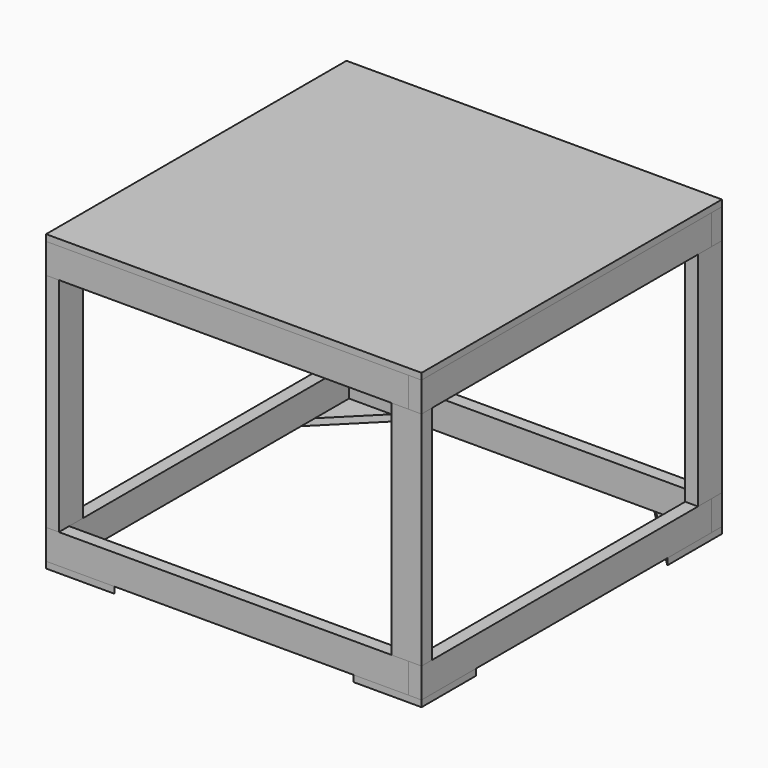
from build123d import *

# Parameters (mm, degrees)
F1_W      = 38.1
F1_H      = 1079.5
F2_DEPTH  = 88.9
F3_COUNT  = 4
F6_W      = 38.1
F6_H      = 88.9
F7_DEPTH  = 660.4
F8_COUNT  = 4
F10_DEPTH = 19.05
F11_COUNT = 4
F12_W     = 1117.6
F12_H     = 1117.6
F13_DEPTH = 19.05


with BuildPart() as f2:
    # F1 (on Top) → F2 (new body)
    with BuildSketch(Plane.XY):
        with Locations((19.05, 577.85)):
            Rectangle(F1_W, F1_H)
    extrude(amount=F2_DEPTH)


with BuildPart() as f3_1:
    # F3: instance of F2
    add(f2.part.rotate(Axis((558.8, 558.8, 0), (0, 0, 1)), 1 * 360 / F3_COUNT))


with BuildPart() as f3_2:
    # F3: instance of F2
    add(f2.part.rotate(Axis((558.8, 558.8, 0), (0, 0, 1)), 2 * 360 / F3_COUNT))


with BuildPart() as f3_3:
    # F3: instance of F2
    add(f2.part.rotate(Axis((558.8, 558.8, 0), (0, 0, 1)), 3 * 360 / F3_COUNT))


with BuildPart() as f5_1:
    # F5: instance of F2
    add(f2.part.mirror(Plane(origin=(539.75, 19.05, -330.2), x_dir=(1, 0, 0), z_dir=(0, 0, -1))))


with BuildPart() as f5_2:
    # F5: instance of F3_1
    add(f3_1.part.mirror(Plane(origin=(539.75, 19.05, -330.2), x_dir=(1, 0, 0), z_dir=(0, 0, -1))))


with BuildPart() as f5_3:
    # F5: instance of F3_2
    add(f3_2.part.mirror(Plane(origin=(539.75, 19.05, -330.2), x_dir=(1, 0, 0), z_dir=(0, 0, -1))))


with BuildPart() as f5_4:
    # F5: instance of F3_3
    add(f3_3.part.mirror(Plane(origin=(539.75, 19.05, -330.2), x_dir=(1, 0, 0), z_dir=(0, 0, -1))))


with BuildPart() as f7:
    # F6 (on face) → F7 (new body, through all)
    with BuildSketch(Plane(origin=(0, 0, 0), x_dir=(1, 0, 0), z_dir=(0, 0, -1))):
        with Locations((19.05, -44.45)):
            Rectangle(F6_W, F6_H)
    extrude(amount=F7_DEPTH)


with BuildPart() as f8_1:
    # F8: instance of F7
    add(f7.part.rotate(Axis((558.8, 558.8, 0), (0, 0, 1)), 1 * 360 / F8_COUNT))


with BuildPart() as f8_2:
    # F8: instance of F7
    add(f7.part.rotate(Axis((558.8, 558.8, 0), (0, 0, 1)), 2 * 360 / F8_COUNT))


with BuildPart() as f8_3:
    # F8: instance of F7
    add(f7.part.rotate(Axis((558.8, 558.8, 0), (0, 0, 1)), 3 * 360 / F8_COUNT))


with BuildPart() as f10:
    # F9 (on face) → F10 (new body)
    with BuildSketch(Plane(origin=(0, 0, -749.3), x_dir=(1, 0, 0), z_dir=(0, 0, -1))):
        Polygon((203.2, 0), (0, 0), (0, -203.2), align=None)
    extrude(amount=F10_DEPTH)


with BuildPart() as f11_1:
    # F11: instance of F10
    add(f10.part.rotate(Axis((558.8, 558.8, 0), (0, 0, 1)), 1 * 360 / F11_COUNT))


with BuildPart() as f11_2:
    # F11: instance of F10
    add(f10.part.rotate(Axis((558.8, 558.8, 0), (0, 0, 1)), 2 * 360 / F11_COUNT))


with BuildPart() as f11_3:
    # F11: instance of F10
    add(f10.part.rotate(Axis((558.8, 558.8, 0), (0, 0, 1)), 3 * 360 / F11_COUNT))


with BuildPart() as f13:
    # F12 (on face) → F13 (new body)
    with BuildSketch(Plane.XY.offset(88.9)):
        with Locations((558.8, 558.8)):
            Rectangle(F12_W, F12_H)
    extrude(amount=F13_DEPTH)


solid = Compound([f2.part, f3_1.part, f3_2.part, f3_3.part, f5_1.part, f5_2.part, f5_3.part, f5_4.part, f7.part, f8_1.part, f8_2.part, f8_3.part, f10.part, f11_1.part, f11_2.part, f11_3.part, f13.part])
